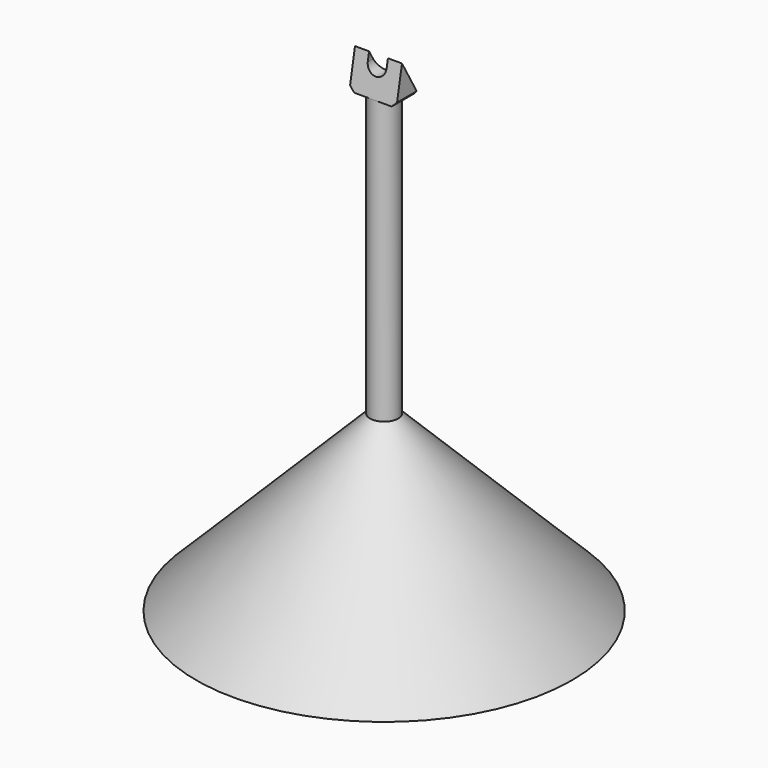
from build123d import *

# Parameters (mm, degrees)
PAD_DEPTH         = 0.25
POCKET_DEPTH      = 2.001
POCKET_DEPTH_BACK = 2.001
CHAMFER_SIZE      = 0.05
CHAMFER001_SIZE   = 0.05


with BuildPart() as part:
    # Sketch → Revolution (revolve)
    with BuildSketch(Plane.XZ):
        Polygon((0, 4.85), (0.15, 4.85), (0.15, 1.85), (2, 0), (0, 0), align=None)
    revolve(axis=Axis((0, 0, 0), (0, 0, 1)))

    # Sketch010 → Pad (new body, symmetric)
    with BuildSketch(Plane.YZ):
        Polygon((0.15, 4.85), (-0.15, 4.85), (-0.075, 5.239711), align=None)
    extrude(amount=PAD_DEPTH, both=True)

    # Sketch011 → Pocket (cut, two sides)
    with BuildSketch(Plane.XZ) as pocket_sk:
        with BuildLine():
            ThreePointArc((-0.1, 5.15), (0, 5.05), (0.1, 5.15))
            Line((0.1, 5.605646), (0.1, 5.15))
            Line((-0.1, 5.605646), (0.1, 5.605646))
            Line((-0.1, 5.15), (-0.1, 5.605646))
        make_face()
    extrude(amount=-POCKET_DEPTH, mode=Mode.SUBTRACT)
    extrude(pocket_sk.sketch, amount=POCKET_DEPTH_BACK, mode=Mode.SUBTRACT)

    # Chamfer
    chamfer_edges = [part.edges().sort_by_distance(p)[0] for p in [
        (0.25, 0, 4.85),
    ]]
    chamfer(chamfer_edges, length=CHAMFER_SIZE)

    # Chamfer001
    chamfer001_edges = [part.edges().sort_by_distance(p)[0] for p in [
        (-0.25, 0, 4.85),
    ]]
    chamfer(chamfer001_edges, length=CHAMFER001_SIZE)


solid = part.part
